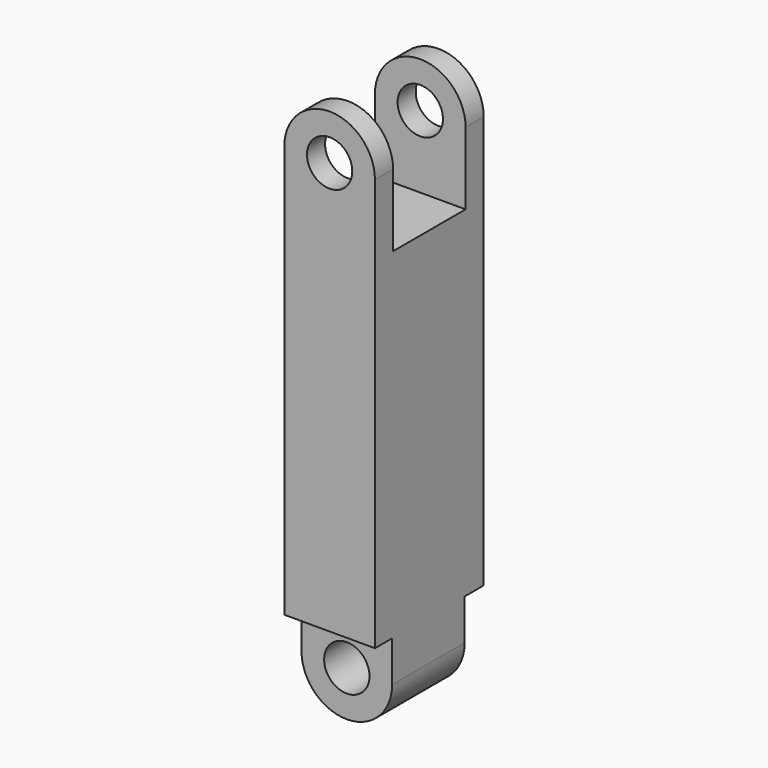
from build123d import *

# Parameters (mm, degrees)
F0_R     = 6.35
F1_DEPTH = 19.05
F2_W     = 25.4
F2_H     = 38.1
F3_DEPTH = 12.7
F4_W     = 7.62
F4_H     = 25.4
F5_DEPTH = 12.7


with BuildPart() as f1:
    # F0 (on Front) → F1 (new body, symmetric)
    with BuildSketch(Plane.XZ):
        with BuildLine():
            ThreePointArc((-12.7, 104.409303), (0, 91.709303), (12.7, 104.409303))
            ThreePointArc((12.7, 104.409303), (0, 117.109303), (-12.7, 104.409303))
        make_face()
        with Locations((0, 104.409303)):
            Circle(F0_R, mode=Mode.SUBTRACT)
        with BuildLine():
            Line((12.7, -22.590697), (12.7, 104.409303))
            ThreePointArc((12.7, 104.409303), (0, 91.709303), (-12.7, 104.409303))
            Line((-12.7, 104.409303), (-12.7, -22.590697))
            ThreePointArc((-12.7, -22.590697), (0, -9.890697), (12.7, -22.590697))
        make_face()
        with BuildLine():
            ThreePointArc((-12.7, -22.590697), (0, -35.290697), (12.7, -22.590697))
            ThreePointArc((12.7, -22.590697), (0, -9.890697), (-12.7, -22.590697))
        make_face()
        with Locations((0, -22.590697)):
            Circle(F0_R, mode=Mode.SUBTRACT)
    extrude(amount=F1_DEPTH, both=True)

    # F2 (on Right) → F3 (cut, symmetric)
    with BuildSketch(Plane.YZ):
        with Locations((0, 103.236585)):
            Rectangle(F2_W, F2_H)
    extrude(amount=F3_DEPTH, both=True, mode=Mode.SUBTRACT)

    # F4 (on Right) → F5 (cut, symmetric)
    with BuildSketch(Plane.YZ):
        with Locations((-16.837219, -23.87516)):
            Rectangle(F4_W, F4_H)
        with Locations((16.182781, -23.87516)):
            Rectangle(F4_W, F4_H)
    extrude(amount=F5_DEPTH, both=True, mode=Mode.SUBTRACT)


solid = f1.part
